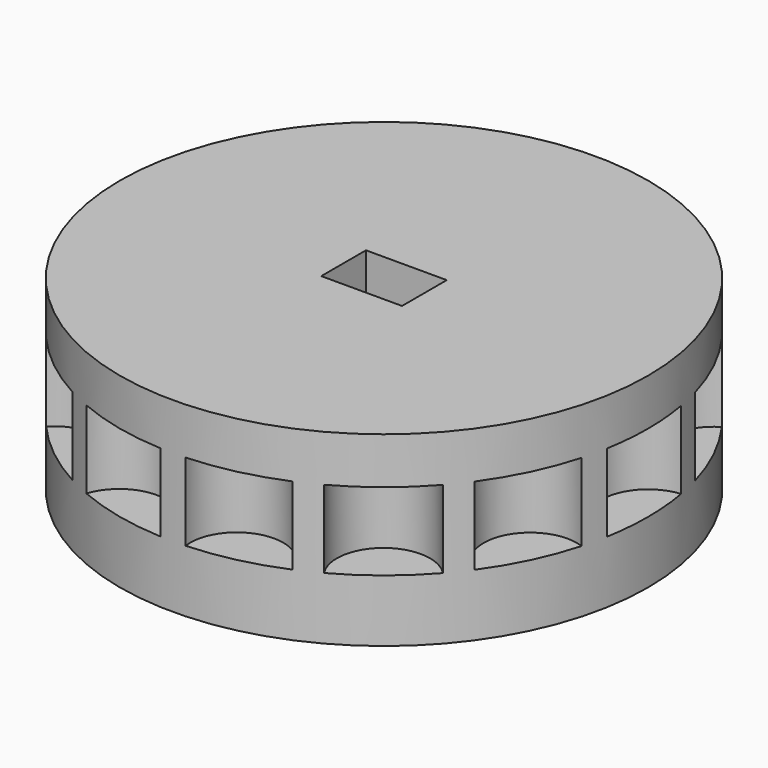
from build123d import *

# Parameters (mm, degrees)
F0_R      = 17
F1_DEPTH  = 4
F2_R      = 17
F3_DEPTH  = 5
F5_DEPTH  = 5
F6_COUNT  = 14
F7_R      = 17
F8_DEPTH  = 3
F9_W      = 5.2
F9_H      = 3.6
F10_DEPTH = 300


with BuildPart() as f1:
    # F0 (on Top) → F1 (new body)
    with BuildSketch(Plane.XY):
        Circle(F0_R)
    extrude(amount=F1_DEPTH)

    # F2 (on face) → F3 (join)
    with BuildSketch(Plane.XY.offset(4)):
        Circle(F2_R)
    extrude(amount=F3_DEPTH)

    # F6: F5 ×14 about axis
    f6_axis = Axis((0, 0, 9), (0, 0, 1))


with BuildPart() as f5:
    # F4 (on face) → F5 (new body)
    with BuildSketch(Plane.XY.offset(9)):
        with BuildLine():
            Line((19.066369161, -2.1748835579), (19.066369161, 2.1748835579))
            ThreePointArc((19.066369161, 2.1748835579), (18.1125082755, 2.7860949978), (17, 3))
            ThreePointArc((17, 3), (16.8675178144, 2.9970733175), (16.7352941176, 2.9882989803))
            ThreePointArc((16.7352941176, 2.9882989803), (16.9336942219, 1.5), (17, 0))
            ThreePointArc((17, 0), (16.9336942219, -1.5), (16.7352941176, -2.9882989803))
            ThreePointArc((16.7352941176, -2.9882989803), (16.8675178144, -2.9970733175), (17, -3))
            ThreePointArc((17, -3), (18.1125082755, -2.7860949978), (19.066369161, -2.1748835579))
        make_face()
        with BuildLine():
            ThreePointArc((17, 3), (18.1125082755, 2.7860949978), (19.066369161, 2.1748835579))
            Line((19.066369161, 2.1748835579), (19.066369161, 3))
            Line((19.066369161, 3), (17, 3))
        make_face()
        with BuildLine():
            ThreePointArc((17, 0), (16.9336942219, 1.5), (16.7352941176, 2.9882989803))
            ThreePointArc((16.7352941176, 2.9882989803), (14, 0), (16.7352941176, -2.9882989803))
            ThreePointArc((16.7352941176, -2.9882989803), (16.9336942219, -1.5), (17, 0))
        make_face()
    extrude(amount=-F5_DEPTH)


with BuildPart() as f1_1:
    add(f1.part)
    for i in range(1, F6_COUNT):
        add(f5.part.rotate(f6_axis, i * 360 / F6_COUNT), mode=Mode.SUBTRACT)

    # F6#seed: cut F5
    add(f5.part, mode=Mode.SUBTRACT)

    # F7 (on face) → F8 (join)
    with BuildSketch(Plane.XY.offset(9)):
        Circle(F7_R)
    extrude(amount=F8_DEPTH)

    # F9 (on face) → F10 (cut)
    with BuildSketch(Plane.XY.offset(12)):
        Rectangle(F9_W, F9_H)
    extrude(amount=-F10_DEPTH, mode=Mode.SUBTRACT)


solid = f1_1.part
